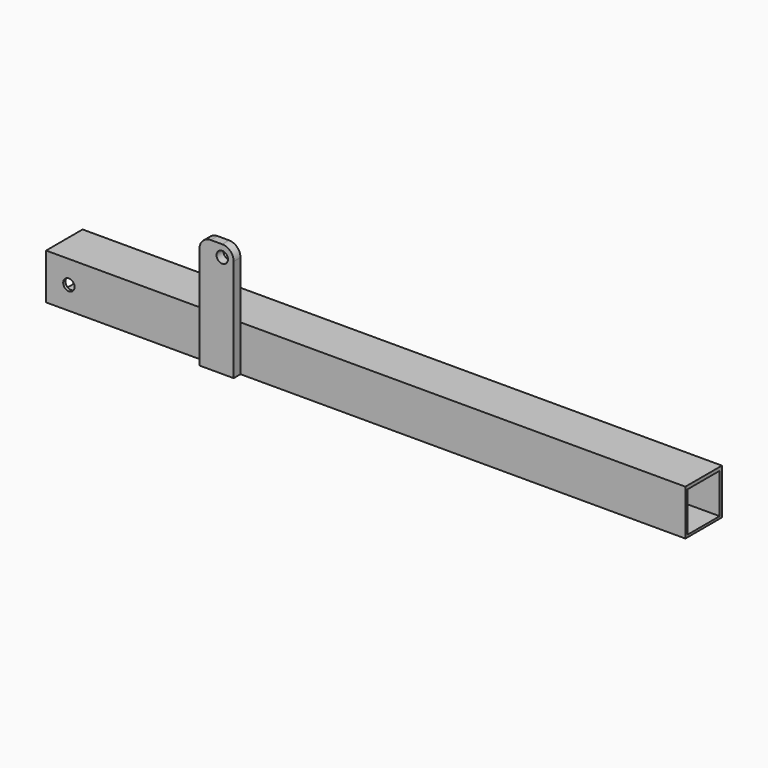
from build123d import *

# Parameters (mm, degrees)
F0_W     = 355.6
F0_H     = 25.4
F0_R     = 3.175
F1_DEPTH = 25.4
F2_W     = 22.225
F2_H     = 22.225
F3_DEPTH = 355.601
F4_R     = 3.175
F4_W     = 19.05
F4_H     = 25.4
F5_DEPTH = 4.7625


with BuildPart() as f1:
    # F0 (on Front) → F1 (new body)
    with BuildSketch(Plane.XZ):
        with Locations((-25.856045, -10.802652)):
            Rectangle(F0_W, F0_H)
        with Locations((-190.956045, -10.802652)):
            Circle(F0_R, mode=Mode.SUBTRACT)
    extrude(amount=F1_DEPTH)

    # F2 (on face) → F3 (cut, through all)
    with BuildSketch(Plane.YZ.offset(151.943955)):
        with Locations((-12.7, -11.1125)):
            Rectangle(F2_W, F2_H)
    extrude(amount=-F3_DEPTH, mode=Mode.SUBTRACT)


with BuildPart() as f5:
    # F4 (on face) → F5 (new body)
    with BuildSketch(Plane.XZ.offset(25.4)):
        with BuildLine():
            Line((-114.561781, 33.647348), (-114.561781, 1.897348))
            Line((-114.561781, 1.897348), (-95.511781, 1.897348))
            Line((-95.511781, 1.897348), (-95.511781, 33.647348))
            ThreePointArc((-95.511781, 33.647348), (-97.371653, 38.137476), (-101.861781, 39.997348))
            Line((-101.861781, 39.997348), (-108.211781, 39.997348))
            ThreePointArc((-108.211781, 39.997348), (-112.701909, 38.137476), (-114.561781, 33.647348))
        make_face()
        with Locations((-101.861781, 33.647348)):
            Circle(F4_R, mode=Mode.SUBTRACT)
        with Locations((-105.036781, -10.802652)):
            Rectangle(F4_W, F4_H)
    extrude(amount=F5_DEPTH)


solid = Compound([f1.part, f5.part])
